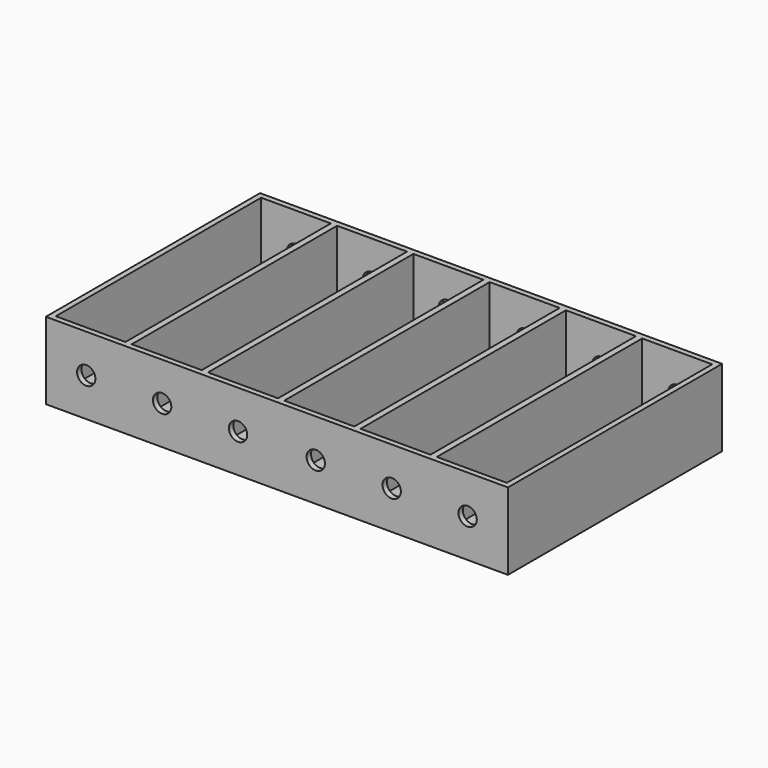
from build123d import *

# Parameters (mm, degrees)
F0_W     = 126
F0_H     = 73
F1_DEPTH = 2
F2_W     = 1.7
F2_H     = 1.5
F2_W_2   = 19.1
F2_H_2   = 70
F3_DEPTH = 19
F5_DEPTH = 100
F6_R     = 0.1


with BuildPart() as f1:
    # F0 (on Top) → F1 (new body)
    with BuildSketch(Plane.XY):
        Rectangle(F0_W, F0_H)
    extrude(amount=F1_DEPTH)

    # F2 (on face) → F3 (join)
    with BuildSketch(Plane.XY.offset(2)):
        Polygon((42.4, 35), (61.5, 35), (61.5, -35), (42.4, -35), (42.4, -36.5), (63, -36.5), (63, 36.5), (42.4, 36.5), align=None)
        with Locations((41.55, 35.75)):
            Rectangle(F2_W, F2_H)
        with Locations((31.15, 35.75)):
            Rectangle(F2_W_2, F2_H)
        with Locations((41.55, -35.75)):
            Rectangle(F2_W, F2_H)
        with Locations((20.75, 35.75)):
            Rectangle(F2_W, F2_H)
        with Locations((31.15, -35.75)):
            Rectangle(F2_W_2, F2_H)
        with Locations((10.35, 35.75)):
            Rectangle(F2_W_2, F2_H)
        with Locations((20.75, -35.75)):
            Rectangle(F2_W, F2_H)
        with Locations((-0.05, 35.75)):
            Rectangle(F2_W, F2_H)
        with Locations((10.35, -35.75)):
            Rectangle(F2_W_2, F2_H)
        with Locations((-10.45, 35.75)):
            Rectangle(F2_W_2, F2_H)
        with Locations((-0.05, -35.75)):
            Rectangle(F2_W, F2_H)
        with Locations((-20.85, 35.75)):
            Rectangle(F2_W, F2_H)
        with Locations((-10.45, -35.75)):
            Rectangle(F2_W_2, F2_H)
        with Locations((-31.25, 35.75)):
            Rectangle(F2_W_2, F2_H)
        with Locations((-20.85, -35.75)):
            Rectangle(F2_W, F2_H)
        with Locations((-41.65, 35.75)):
            Rectangle(F2_W, F2_H)
        with Locations((-31.25, -35.75)):
            Rectangle(F2_W_2, F2_H)
        Polygon((-61.5, 35), (-42.5, 35), (-42.5, 36.5), (-63, 36.5), (-63, -36.5), (-42.5, -36.5), (-42.5, -35), (-61.5, -35), align=None)
        with Locations((-41.65, -35.75)):
            Rectangle(F2_W, F2_H)
        with Locations((-41.65, 0)):
            Rectangle(F2_W, F2_H_2)
        with Locations((-20.85, 0)):
            Rectangle(F2_W, F2_H_2)
        with Locations((-0.05, 0)):
            Rectangle(F2_W, F2_H_2)
        with Locations((20.75, 0)):
            Rectangle(F2_W, F2_H_2)
        with Locations((41.55, 0)):
            Rectangle(F2_W, F2_H_2)
    extrude(amount=F3_DEPTH)

    # F4 (on face) → F5 (cut)
    with BuildSketch(Plane.XZ.offset(36.5)):
        with BuildLine():
            ThreePointArc((-49.5, 10.5), (-52, 13), (-54.5, 10.5))
            Line((-54.5, 10.5), (-49.5, 10.5))
        make_face()
        with BuildLine():
            ThreePointArc((54.5, 10.5), (52, 13), (49.5, 10.5))
            Line((49.5, 10.5), (54.5, 10.5))
        make_face()
        with BuildLine():
            Line((54.5, 10.5), (49.5, 10.5))
            ThreePointArc((49.5, 10.5), (52, 8), (54.5, 10.5))
        make_face()
        with BuildLine():
            ThreePointArc((33.8, 10.5), (31.3, 13), (28.8, 10.5))
            Line((28.8, 10.5), (33.8, 10.5))
        make_face()
        with BuildLine():
            Line((33.8, 10.5), (28.8, 10.5))
            ThreePointArc((28.8, 10.5), (31.3, 8), (33.8, 10.5))
        make_face()
        with BuildLine():
            ThreePointArc((13.1, 10.5), (10.6, 13), (8.1, 10.5))
            Line((8.1, 10.5), (13.1, 10.5))
        make_face()
        with BuildLine():
            Line((13.1, 10.5), (8.1, 10.5))
            ThreePointArc((8.1, 10.5), (10.6, 8), (13.1, 10.5))
        make_face()
        with BuildLine():
            ThreePointArc((-8.1, 10.5), (-10.6, 13), (-13.1, 10.5))
            Line((-13.1, 10.5), (-8.1, 10.5))
        make_face()
        with BuildLine():
            Line((-8.1, 10.5), (-13.1, 10.5))
            ThreePointArc((-13.1, 10.5), (-10.6, 8), (-8.1, 10.5))
        make_face()
        with BuildLine():
            ThreePointArc((-28.8, 10.5), (-31.3, 13), (-33.8, 10.5))
            Line((-33.8, 10.5), (-28.8, 10.5))
        make_face()
        with BuildLine():
            Line((-28.8, 10.5), (-33.8, 10.5))
            ThreePointArc((-33.8, 10.5), (-31.3, 8), (-28.8, 10.5))
        make_face()
        with BuildLine():
            Line((-49.5, 10.5), (-54.5, 10.5))
            ThreePointArc((-54.5, 10.5), (-52, 8), (-49.5, 10.5))
        make_face()
    extrude(amount=-F5_DEPTH, mode=Mode.SUBTRACT)

    # F6
    f6_edges = [f1.edges().sort_by_distance(p)[0] for p in [
        (-63, -36.5, 10.5),
        (63, -36.5, 10.5),
        (63, 36.5, 10.5),
        (-63, 36.5, 10.5),
    ]]
    fillet(f6_edges, radius=F6_R)


solid = f1.part
